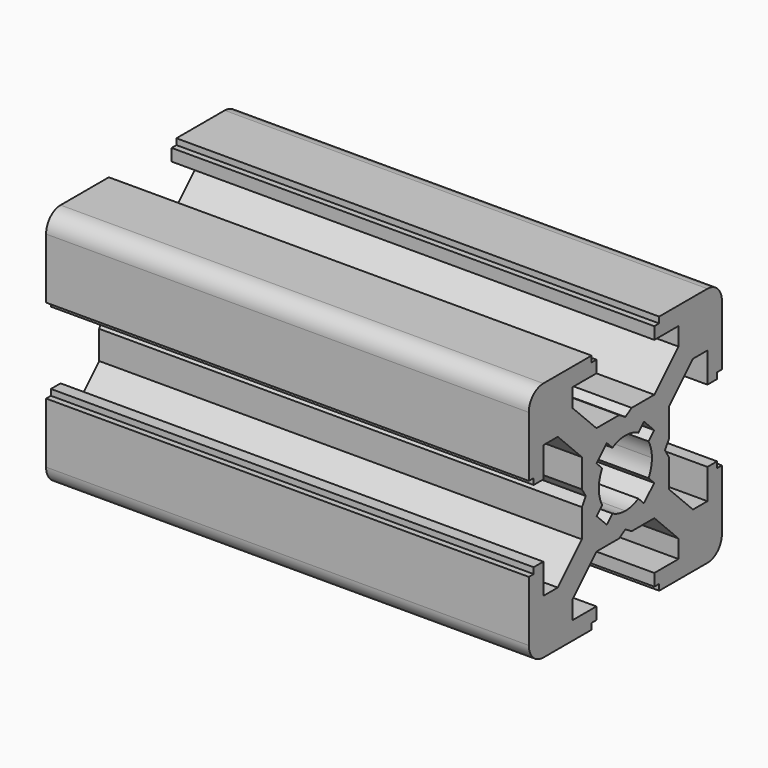
from build123d import *

# Parameters (mm, degrees)
PAD_DEPTH = 40


with BuildPart() as part:
    # Sketch → Pad (new body)
    with BuildSketch(Plane.YZ):
        with BuildLine():
            Line((0, 4.1), (0.65, 4.5))
            Line((0.65, 4.5), (3, 4.5))
            Line((3, 4.5), (5.5, 7))
            Line((5.5, 7), (5.5, 8.5))
            Line((5.5, 8.5), (3, 8.5))
            Line((3, 8.5), (3, 9.5))
            Line((3, 9.5), (3.5, 9.5))
            Line((3.5, 9.5), (3.5, 10))
            Line((3.5, 10), (8.5, 10))
            ThreePointArc((10, 8.5), (9.56066, 9.56066), (8.5, 10))
            Line((10, 8.5), (10, 3.5))
            Line((10, 3.5), (9.5, 3.5))
            Line((9.5, 3.5), (9.5, 3))
            Line((9.5, 3), (8.5, 3))
            Line((8.5, 3), (8.5, 5.5))
            Line((8.5, 5.5), (7, 5.5))
            Line((7, 5.5), (4.5, 3))
            Line((4.5, 3), (4.5, 0.65))
            Line((4.5, 0.65), (4.1, 0))
            Line((4.5, -0.65), (4.1, 0))
            Line((4.5, -3), (4.5, -0.65))
            Line((7, -5.5), (4.5, -3))
            Line((8.5, -5.5), (7, -5.5))
            Line((8.5, -3), (8.5, -5.5))
            Line((9.5, -3), (8.5, -3))
            Line((9.5, -3.5), (9.5, -3))
            Line((10, -3.5), (9.5, -3.5))
            Line((10, -8.5), (10, -3.5))
            ThreePointArc((8.5, -10), (9.56066, -9.56066), (10, -8.5))
            Line((3.5, -10), (8.5, -10))
            Line((3.5, -9.5), (3.5, -10))
            Line((3, -9.5), (3.5, -9.5))
            Line((3, -8.5), (3, -9.5))
            Line((5.5, -8.5), (3, -8.5))
            Line((5.5, -7), (5.5, -8.5))
            Line((3, -4.5), (5.5, -7))
            Line((0.65, -4.5), (3, -4.5))
            Line((0, -4.1), (0.65, -4.5))
            Line((0, -4.1), (-0.65, -4.5))
            Line((-0.65, -4.5), (-3, -4.5))
            Line((-3, -4.5), (-5.5, -7))
            Line((-5.5, -7), (-5.5, -8.5))
            Line((-5.5, -8.5), (-3, -8.5))
            Line((-3, -8.5), (-3, -9.5))
            Line((-3, -9.5), (-3.5, -9.5))
            Line((-3.5, -9.5), (-3.5, -10))
            Line((-3.5, -10), (-8.5, -10))
            ThreePointArc((-10, -8.5), (-9.56066, -9.56066), (-8.5, -10))
            Line((-10, -8.5), (-10, -3.5))
            Line((-10, -3.5), (-9.5, -3.5))
            Line((-9.5, -3.5), (-9.5, -3))
            Line((-9.5, -3), (-8.5, -3))
            Line((-8.5, -3), (-8.5, -5.5))
            Line((-8.5, -5.5), (-7, -5.5))
            Line((-7, -5.5), (-4.5, -3))
            Line((-4.5, -3), (-4.5, -0.65))
            Line((-4.5, -0.65), (-4.1, 0))
            Line((-4.5, 0.65), (-4.1, 0))
            Line((-4.5, 3), (-4.5, 0.65))
            Line((-7, 5.5), (-4.5, 3))
            Line((-8.5, 5.5), (-7, 5.5))
            Line((-8.5, 3), (-8.5, 5.5))
            Line((-9.5, 3), (-8.5, 3))
            Line((-9.5, 3.5), (-9.5, 3))
            Line((-10, 3.5), (-9.5, 3.5))
            Line((-10, 8.5), (-10, 3.5))
            ThreePointArc((-8.5, 10), (-9.56066, 9.56066), (-10, 8.5))
            Line((-3.5, 10), (-8.5, 10))
            Line((-3.5, 9.5), (-3.5, 10))
            Line((-3, 9.5), (-3.5, 9.5))
            Line((-3, 8.5), (-3, 9.5))
            Line((-5.5, 8.5), (-3, 8.5))
            Line((-5.5, 7), (-5.5, 8.5))
            Line((-3, 4.5), (-5.5, 7))
            Line((-0.65, 4.5), (-3, 4.5))
            Line((0, 4.1), (-0.65, 4.5))
        make_face()
        with BuildLine():
            Line((1.340499, 2.401159), (1.923239, 2.983899))
            Line((1.923239, 2.983899), (2.983899, 1.923239))
            Line((2.983899, 1.923239), (2.401159, 1.340499))
            ThreePointArc((2.75, 0), (2.661361, 0.692573), (2.401159, 1.340499))
            ThreePointArc((2.401164, -1.34049), (2.661362, -0.692568), (2.75, 0))
            Line((2.983904, -1.92323), (2.401164, -1.34049))
            Line((1.923247, -2.983894), (2.983904, -1.92323))
            Line((1.340507, -2.401154), (1.923247, -2.983894))
            ThreePointArc((0, -2.75), (0.692577, -2.66136), (1.340507, -2.401154))
            ThreePointArc((-1.340507, -2.401154), (-0.692577, -2.66136), (0, -2.75))
            Line((-1.340507, -2.401154), (-1.923247, -2.983894))
            Line((-1.923247, -2.983894), (-2.983904, -1.92323))
            Line((-2.983904, -1.92323), (-2.401164, -1.34049))
            ThreePointArc((-2.75, 0), (-2.661362, -0.692568), (-2.401164, -1.34049))
            ThreePointArc((-2.401159, 1.340499), (-2.661361, 0.692572), (-2.75, 0))
            Line((-2.983899, 1.923239), (-2.401159, 1.340499))
            Line((-1.923239, 2.983899), (-2.983899, 1.923239))
            Line((-1.340499, 2.401159), (-1.923239, 2.983899))
            ThreePointArc((0, 2.75), (-0.692573, 2.661361), (-1.340499, 2.401159))
            ThreePointArc((1.340499, 2.401159), (0.692573, 2.661361), (0, 2.75))
        make_face(mode=Mode.SUBTRACT)
    extrude(amount=PAD_DEPTH)


solid = part.part
